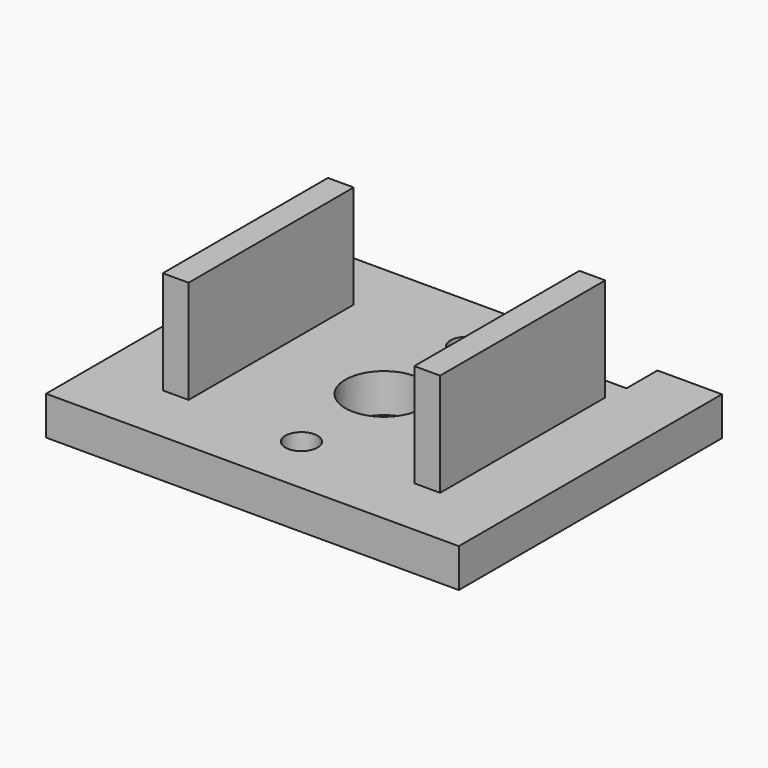
from build123d import *

# Parameters (mm, degrees)
F0_R     = 1.25
F0_R_2   = 3
F1_DEPTH = 3
F2_W     = 2
F2_H     = 16
F3_DEPTH = 8


with BuildPart() as f1:
    # F0 (on Top) → F1 (new body)
    with BuildSketch(Plane.XY):
        Polygon((16, -12.75), (16, 12.75), (11, 12.75), (11, 9.75), (6.5, 9.75), (6.5, 12.75), (-16, 12.75), (-16, -12.75), align=None)
        with Locations((0, -8)):
            Circle(F0_R, mode=Mode.SUBTRACT)
        Circle(F0_R_2, mode=Mode.SUBTRACT)
        with Locations((0, 8)):
            Circle(F0_R, mode=Mode.SUBTRACT)
    extrude(amount=F1_DEPTH)

    # F2 (on face) → F3 (join)
    with BuildSketch(Plane.XY.offset(3)):
        with Locations((-9.75, 0)):
            Rectangle(F2_W, F2_H)
        with Locations((9.75, 0)):
            Rectangle(F2_W, F2_H)
    extrude(amount=F3_DEPTH)


solid = f1.part
